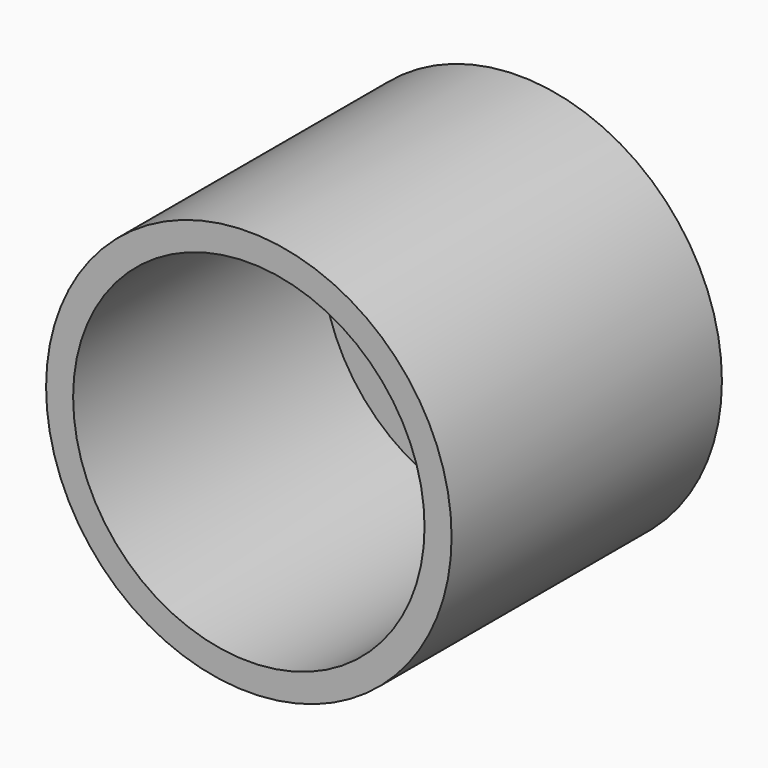
from build123d import *

# Parameters (mm, degrees)
F0_R     = 15
F1_DEPTH = 25
F3_D     = 25.1
F3_DEPTH = 20
F3_TIP   = 7.5408007688
F5_R     = 15
F6_DEPTH = 25
F8_T     = -2
F9_D     = 2


with BuildPart() as f1:
    # F0 (on Front) → F1 (new body)
    with BuildSketch(Plane.XZ):
        Circle(F0_R)
    extrude(amount=F1_DEPTH)

    # F3
    with Locations(Plane.XZ.offset(25)):
        with Locations((0, 0)):
            Hole(F3_D / 2, depth=F3_DEPTH)
            with Locations((0, 0, -(F3_DEPTH + F3_TIP / 2))):  # 118° drill point
                Cone(0, F3_D / 2, F3_TIP, mode=Mode.SUBTRACT)


with BuildPart() as f6:
    # F5 (on Front) → F6 (new body)
    with BuildSketch(Plane.XZ):
        Circle(F5_R)
    extrude(amount=F6_DEPTH)

    # F8
    f8_openings = [f6.faces().sort_by_distance(p)[0] for p in [
        (0, -25, 0),
    ]]
    offset(amount=F8_T, openings=f8_openings)

    # F9 (through all)
    with Locations(Plane.XZ.offset(25)):
        with Locations((0, 0)):
            Hole(F9_D / 2)


solid = f6.part
